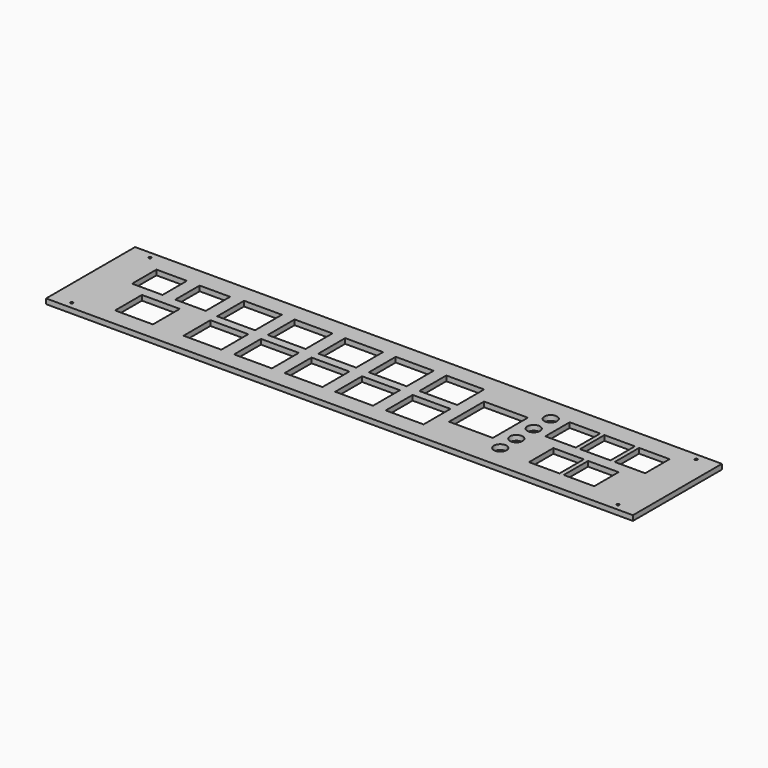
from build123d import *

# Parameters (mm, degrees)
F0_W     = 693
F0_H     = 131.4
F0_R     = 1.575
F0_W_2   = 44.7
F0_H_2   = 39.7
F0_R_2   = 7.5
F0_W_3   = 36
F0_H_3   = 36
F0_W_4   = 51.7
F0_H_4   = 51.7
F1_DEPTH = 6


with BuildPart() as f1:
    # F0 (on Top) → F1 (new body)
    with BuildSketch(Plane.XY):
        with Locations((-257.70224, 23.026403)):
            Rectangle(F0_W, F0_H)
        with Locations((-580.20224, -34.673597)):
            Circle(F0_R, mode=Mode.SUBTRACT)
        with Locations((-517.20224, -1.823597)):
            Rectangle(F0_W_2, F0_H_2, mode=Mode.SUBTRACT)
        with Locations((-436.35224, -1.823597)):
            Rectangle(F0_W_2, F0_H_2, mode=Mode.SUBTRACT)
        with Locations((-376.65224, -1.823597)):
            Rectangle(F0_W_2, F0_H_2, mode=Mode.SUBTRACT)
        with Locations((-316.95224, -1.823597)):
            Rectangle(F0_W_2, F0_H_2, mode=Mode.SUBTRACT)
        with Locations((-90.60224, -14.248597)):
            Circle(F0_R_2, mode=Mode.SUBTRACT)
        with Locations((64.79776, -34.673597)):
            Circle(F0_R, mode=Mode.SUBTRACT)
        with Locations((-257.25224, -1.823597)):
            Rectangle(F0_W_2, F0_H_2, mode=Mode.SUBTRACT)
        with Locations((-197.55224, -1.823597)):
            Rectangle(F0_W_2, F0_H_2, mode=Mode.SUBTRACT)
        with Locations((-90.60224, 9.505447)):
            Circle(F0_R_2, mode=Mode.SUBTRACT)
        with Locations((-34.20224, -1.823597)):
            Rectangle(F0_W_3, F0_H_3, mode=Mode.SUBTRACT)
        with Locations((6.79776, -1.823597)):
            Rectangle(F0_W_3, F0_H_3, mode=Mode.SUBTRACT)
        with Locations((-542.70224, 47.876403)):
            Rectangle(F0_W_3, F0_H_3, mode=Mode.SUBTRACT)
        with Locations((-491.70224, 47.876403)):
            Rectangle(F0_W_3, F0_H_3, mode=Mode.SUBTRACT)
        with Locations((-436.35224, 47.876403)):
            Rectangle(F0_W_2, F0_H_2, mode=Mode.SUBTRACT)
        with Locations((-376.65224, 47.876403)):
            Rectangle(F0_W_2, F0_H_2, mode=Mode.SUBTRACT)
        with Locations((-316.95224, 47.876403)):
            Rectangle(F0_W_2, F0_H_2, mode=Mode.SUBTRACT)
        with Locations((-580.20224, 80.726403)):
            Circle(F0_R, mode=Mode.SUBTRACT)
        with Locations((-134.35224, 23.026403)):
            Rectangle(F0_W_4, F0_H_4, mode=Mode.SUBTRACT)
        with Locations((-90.60224, 35.136569)):
            Circle(F0_R_2, mode=Mode.SUBTRACT)
        with Locations((-257.25224, 47.876403)):
            Rectangle(F0_W_2, F0_H_2, mode=Mode.SUBTRACT)
        with Locations((-197.55224, 47.876403)):
            Rectangle(F0_W_2, F0_H_2, mode=Mode.SUBTRACT)
        with Locations((-54.70224, 47.876403)):
            Rectangle(F0_W_3, F0_H_3, mode=Mode.SUBTRACT)
        with Locations((-13.70224, 47.876403)):
            Rectangle(F0_W_3, F0_H_3, mode=Mode.SUBTRACT)
        with Locations((27.29776, 47.876403)):
            Rectangle(F0_W_3, F0_H_3, mode=Mode.SUBTRACT)
        with Locations((-90.60224, 60.301403)):
            Circle(F0_R_2, mode=Mode.SUBTRACT)
        with Locations((64.79776, 80.726403)):
            Circle(F0_R, mode=Mode.SUBTRACT)
    extrude(amount=F1_DEPTH)


solid = f1.part
